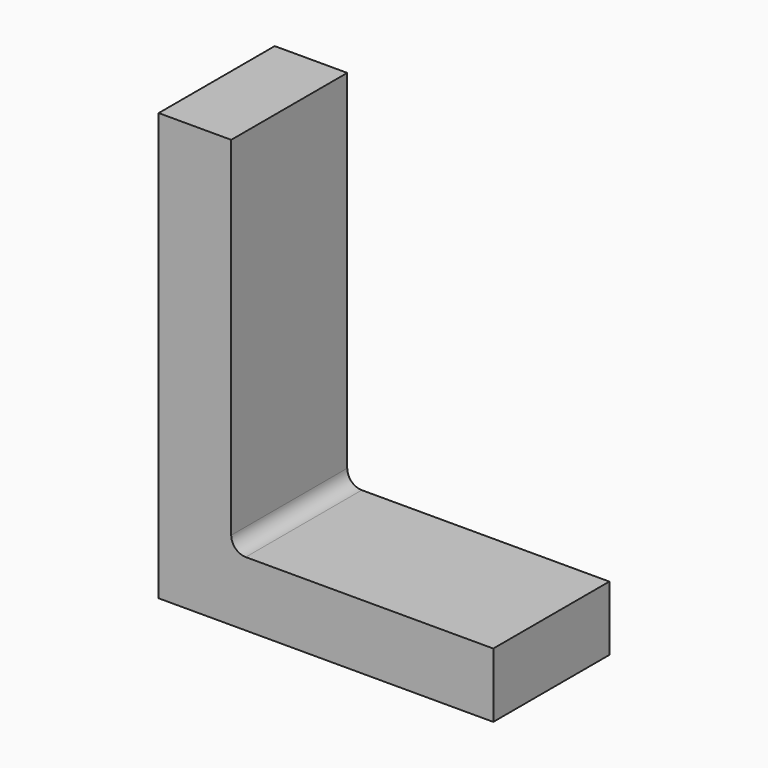
from build123d import *

# Parameters (mm, degrees)
F0_W          = 25.4
F0_H          = 127
F1_DEPTH      = 25.4
F2_DEPTH      = 25.4
F2_DEPTH_BACK = 25.4
F3_R          = 5.08


with BuildPart() as f1:
    # F0 (on Front) → F1 (new body, symmetric)
    with BuildSketch(Plane.XZ):
        with Locations((-12.7, 63.5)):
            Rectangle(F0_W, F0_H)
    extrude(amount=F1_DEPTH, both=True)

    # F0 (on Front) → F2 (join, two sides)
    with BuildSketch(Plane.XZ) as f2_sk:
        Polygon((91.7868316174, 0), (0, 0), (-25.4, 0), (-25.4, -22.6269382983), (91.7868316174, -22.6269382983), align=None)
    extrude(amount=F2_DEPTH)
    extrude(f2_sk.sketch, amount=-F2_DEPTH_BACK)

    # F3
    f3_edges = [f1.edges().sort_by_distance(p)[0] for p in [
        (0, 0, 0),
    ]]
    fillet(f3_edges, radius=F3_R)


solid = f1.part
